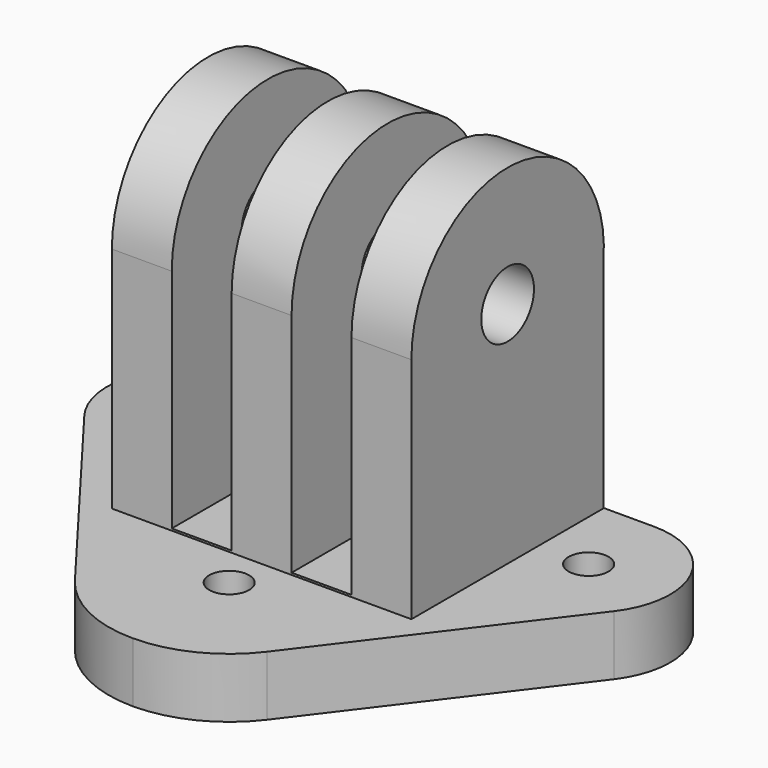
from build123d import *

# Parameters (mm, degrees)
BOX_W           = 3
BOX_H           = 29
BOX_DEPTH       = 23
BOX001_W        = 3
BOX001_H        = 29
BOX001_DEPTH    = 23
SKETCH_R        = 1
PAD_DEPTH       = 3
SKETCH001_R     = 1.65
PAD001_DEPTH    = 1.5
PAD001_FACE17_R = 1.65
PAD002_DEPTH    = 6
PAD002_FACE15_R = 1.65
PAD003_DEPTH    = 6


with BuildPart() as box:
    # Box → Box (new body)
    with BuildSketch(Plane(origin=(1.5, -4.9, 3.1), x_dir=(1, 0, 0), z_dir=(0, 0, 1))):
        with Locations((1.5, 14.5)):
            Rectangle(BOX_W, BOX_H)
    extrude(amount=BOX_DEPTH)


with BuildPart() as box001:
    # Box001 → Box001 (new body)
    with BuildSketch(Plane(origin=(-4.5, -4.9, 3.1), x_dir=(1, 0, 0), z_dir=(0, 0, 1))):
        with Locations((1.5, 14.5)):
            Rectangle(BOX001_W, BOX001_H)
    extrude(amount=BOX001_DEPTH)


with BuildPart() as cut001:
    # Sketch → Pad (new body)
    with BuildSketch(Plane.XY):
        with BuildLine():
            Line((0, 9.082448), (10, 9.082448))
            ThreePointArc((13.264879, 2.512568), (13.6682, 6.809172), (10, 9.082448))
            Line((13.264879, 2.512568), (4.810995, -8.645152))
            ThreePointArc((0, -11.035959), (2.686151, -10.405312), (4.810995, -8.645152))
            ThreePointArc((-4.810995, -8.645152), (-2.686151, -10.405312), (0, -11.035959))
            Line((-13.264879, 2.512568), (-4.810995, -8.645152))
            ThreePointArc((-10, 9.082448), (-13.6682, 6.809172), (-13.264879, 2.512568))
            Line((0, 9.082448), (-10, 9.082448))
        make_face()
        with Locations((10, 5)):
            Circle(SKETCH_R, mode=Mode.SUBTRACT)
        with Locations((0, -5)):
            Circle(SKETCH_R, mode=Mode.SUBTRACT)
        with Locations((-10, 5)):
            Circle(SKETCH_R, mode=Mode.SUBTRACT)
    extrude(amount=PAD_DEPTH)

    # Sketch001 → Pad001 (join, symmetric)
    with BuildSketch(Plane.YZ):
        with BuildLine():
            Line((-2.970462, 2.440773), (-2.970462, 14.440773))
            ThreePointArc((9.050778, 13.866246), (3.341478, 20.458253), (-2.970462, 14.440773))
            Line((9.050778, 13.866246), (9.050778, 2.407893))
            Line((9.050778, 2.407893), (-2.970462, 2.440773))
        make_face()
        with Locations((3.053887, 14.440773)):
            Circle(SKETCH001_R, mode=Mode.SUBTRACT)
    extrude(amount=PAD001_DEPTH, both=True)

    # Pad001 Face17 → Pad002 (add)
    with BuildSketch(Plane(origin=(1.5, 3.044075, 10.994615), x_dir=(0, -1, 0), z_dir=(1, 0, 0))):
        with BuildLine():
            Line((6.014537, 7.994615), (-6.006703, 7.994615))
            Line((-6.006703, 7.994615), (-6.006703, -2.871631))
            ThreePointArc((-6.006703, -2.871631), (-0.297403, -9.463638), (6.014537, -3.446158))
            Line((6.014537, -3.446158), (6.014537, 7.994615))
        make_face()
        with Locations((-0.009812, -3.446158)):
            Circle(PAD001_FACE17_R, mode=Mode.SUBTRACT)
    extrude(amount=PAD002_DEPTH)

    # Pad002 Face15 → Pad003 (add)
    with BuildSketch(Plane(origin=(-1.5, 3.044075, 10.994615), x_dir=(0, 1, 0), z_dir=(-1, 0, 0))):
        with BuildLine():
            Line((6.006703, 7.994615), (-6.014537, 7.994615))
            Line((-6.014537, 7.994615), (-6.014537, -3.446158))
            ThreePointArc((-6.014537, -3.446158), (0.297403, -9.463638), (6.006703, -2.871631))
            Line((6.006703, -2.871631), (6.006703, 7.994615))
        make_face()
        with Locations((0.009812, -3.446158)):
            Circle(PAD002_FACE15_R, mode=Mode.SUBTRACT)
    extrude(amount=PAD003_DEPTH)

    # Cut: cut Box001
    add(box001.part, mode=Mode.SUBTRACT)

    # Cut001: cut Box
    add(box.part, mode=Mode.SUBTRACT)


solid = cut001.part
